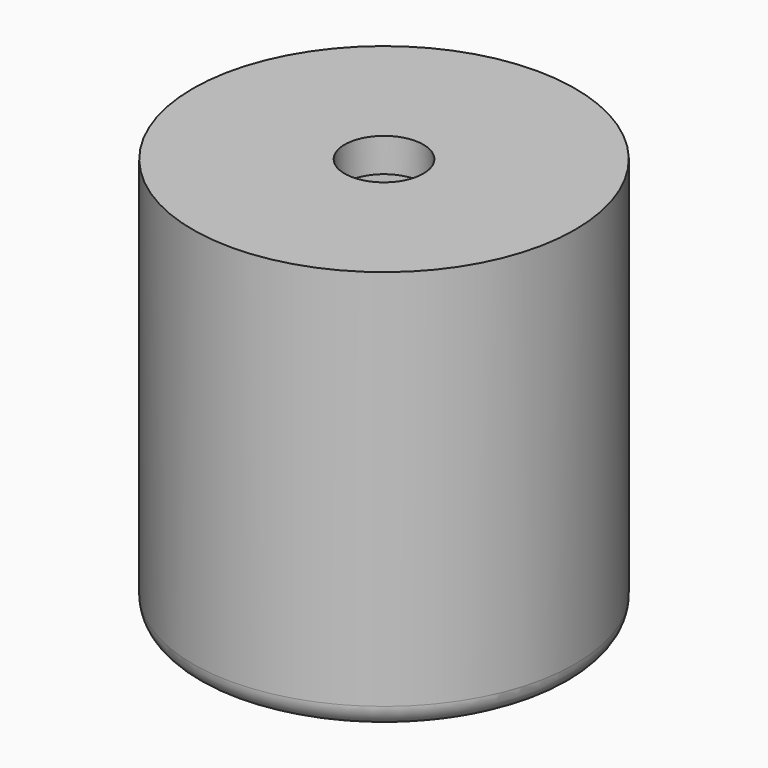
from build123d import *

# Parameters (mm, degrees)
FILLET003_R = 1
FILLET004_R = 1


with BuildPart() as part:
    # Sketch002 → Revolution001 (revolve)
    with BuildSketch(Plane.XZ):
        Polygon((1.75, 33.5), (8.5, 33.5), (8.5, 15.5), (7, 15.5), (7, 32), (1.75, 32), align=None)
    revolve(axis=Axis((0, 0, 0), (0, 0, 1)))

    # Fillet003
    fillet003_edges = [part.edges().sort_by_distance(p)[0] for p in [
        (-8.5, 0, 15.5),
    ]]
    fillet(fillet003_edges, radius=FILLET003_R)

    # Fillet004
    fillet004_edges = [part.edges().sort_by_distance(p)[0] for p in [
        (-7, 0, 32),
    ]]
    fillet(fillet004_edges, radius=FILLET004_R)


solid = part.part
